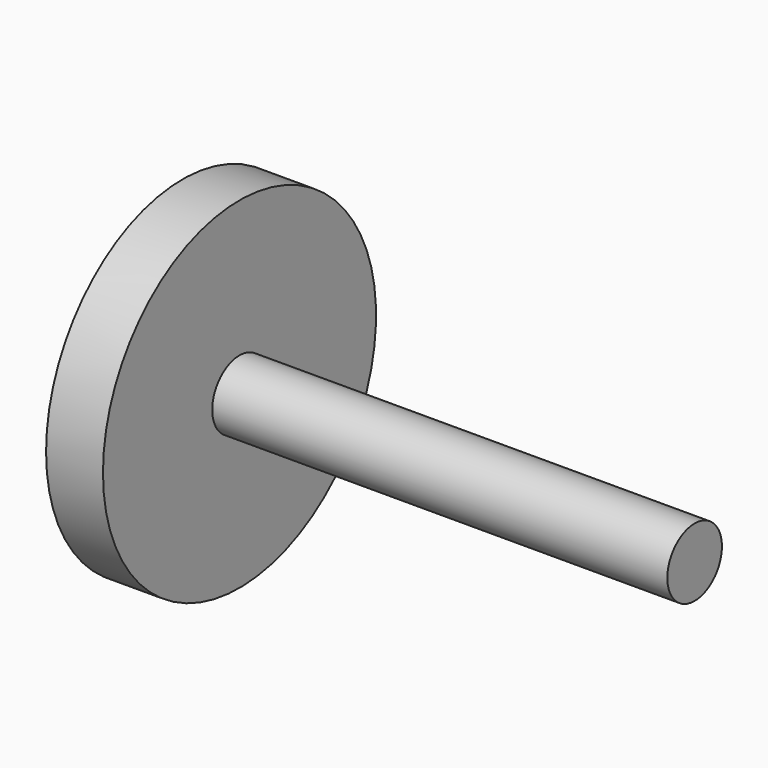
from build123d import *

# Parameters (mm, degrees)
F0_R     = 1.5
F1_DEPTH = 20
F2_R     = 7.500289
F3_DEPTH = 2.5


with BuildPart() as f1:
    # F0 (on Right) → F1 (new body)
    with BuildSketch(Plane.YZ):
        Circle(F0_R)
    extrude(amount=F1_DEPTH)

    # F2 (on face) → F3 (join)
    with BuildSketch(Plane(origin=(0, 0, 0), x_dir=(0, -1, 0), z_dir=(-1, 0, 0))):
        Circle(F2_R)
    extrude(amount=F3_DEPTH)


solid = f1.part
